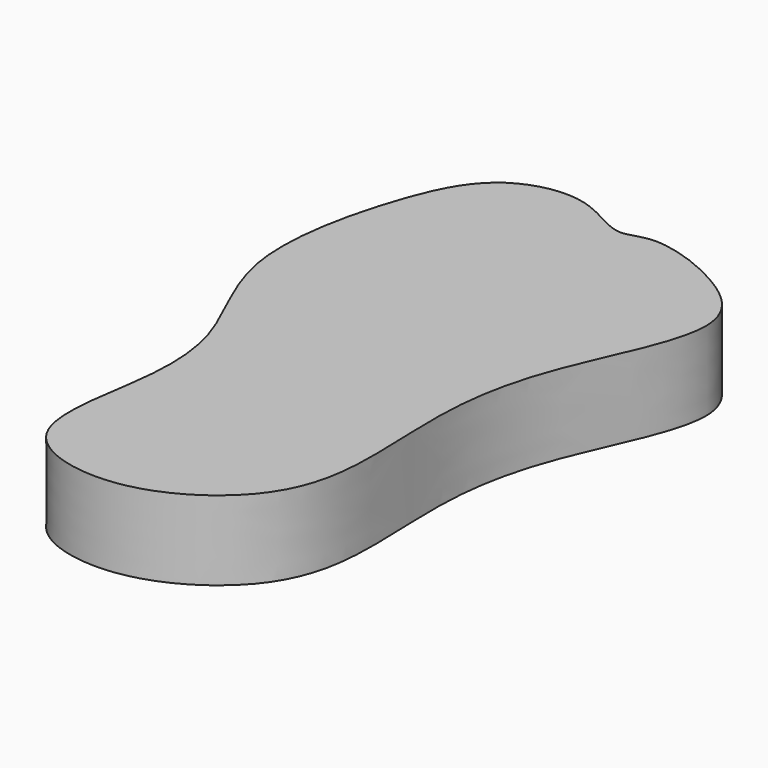
from build123d import *

# Parameters (mm, degrees)
F1_DEPTH = 3


with BuildPart() as f1:
    # F0 (on Top) → F1 (new body)
    with BuildSketch(Plane.XY):
        with BuildLine():
            add(Edge.make_bspline(
                [(-1.1754604135, 15.1787724542), (-1.684115036, 15.2430784072), (-3.0868864954, 16.4139271121), (-6.174815033, 15.7839360802), (-7.7102539334, 12.6131127699), (-8.9520588953, 6.8718873622), (-6.237867444, 2.8017856987), (-6.050419569, -0.9254353301), (-7.3397633555, -6.0265339225), (-2.6071032813, -7.2813682951), (1.2075366089, -5.0039051298), (2.400133233, -1.7985815833), (1.8669216478, 2.9496670209), (2.6870177647, 7.2024574241), (5.4054136497, 12.124938524), (3.4449553227, 14.4493257893), (0.0102646231, 15.7383852683), (-0.7927150961, 15.1303844099), (-1.1754604135, 15.1787724542)],
                knots=[0, 0, 0, 0, 0.0478599494, 0.1020980453, 0.1624268792, 0.2409144654, 0.3115808403, 0.3758033545, 0.4449242303, 0.5082179861, 0.5754700455, 0.6345219731, 0.7052320385, 0.7758721624, 0.8501448585, 0.9031002112, 0.9639870145, 1, 1, 1, 1], degree=3))
        make_face()
    extrude(amount=F1_DEPTH)


solid = f1.part
